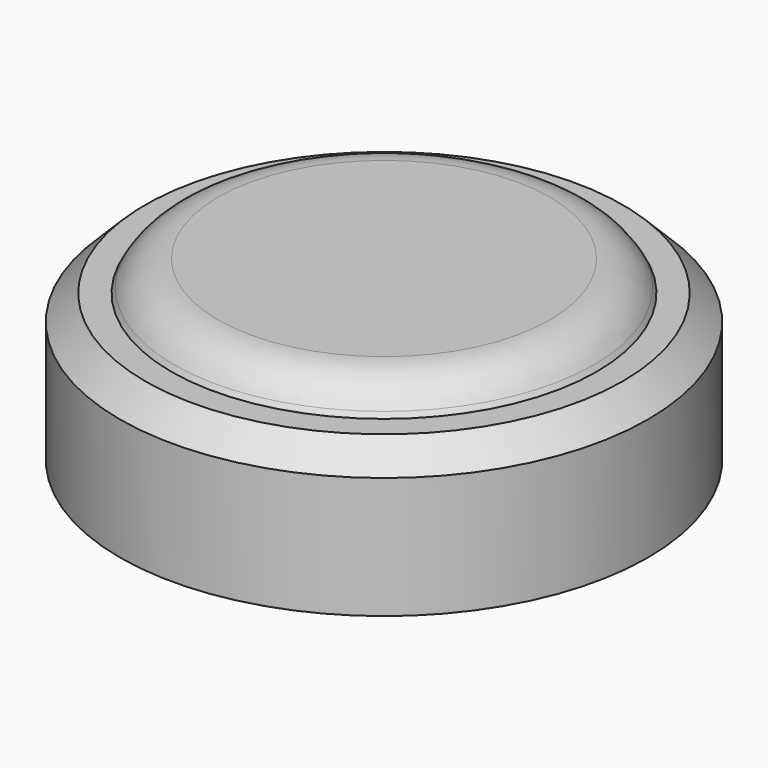
from build123d import *

# Parameters (mm, degrees)
F0_R     = 26.4876043929
F1_DEPTH = 14.732
F2_SIZE  = 2.54
F3_R     = 21.3384472315
F4_DEPTH = 3.048
F4_TAPER = 30
F5_R     = 5.08


with BuildPart() as f1:
    # F0 (on Top) → F1 (new body)
    with BuildSketch(Plane.XY):
        Circle(F0_R)
    extrude(amount=F1_DEPTH)

    # F2
    f2_edges = [f1.edges().sort_by_distance(p)[0] for p in [
        (-26.487604, 0, 14.732),
    ]]
    chamfer(f2_edges, length=F2_SIZE)

    # F3 (on face) → F4 (join)
    with BuildSketch(Plane.XY.offset(14.732)):
        Circle(F3_R)
    extrude(amount=F4_DEPTH, taper=F4_TAPER)

    # F5
    f5_edges = [f1.edges().sort_by_distance(p)[0] for p in [
        (-19.578684, 0, 17.78),
    ]]
    fillet(f5_edges, radius=F5_R)


solid = f1.part
